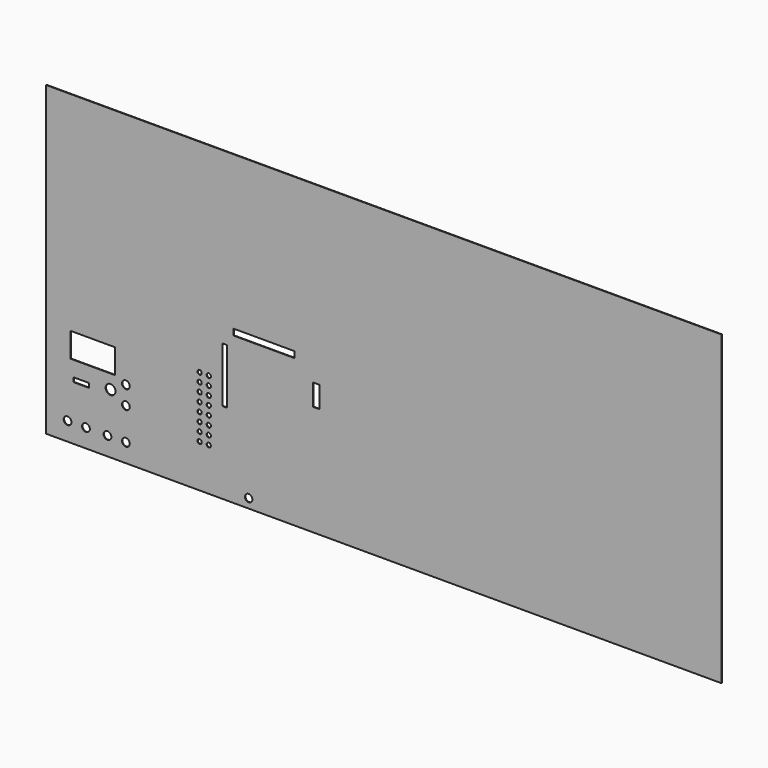
from build123d import *

# Parameters (mm, degrees)
F0_W     = 1100
F0_H     = 500
F0_R     = 6.3
F0_W_2   = 25
F0_H_2   = 7
F0_R_2   = 8
F0_R_3   = 3.5
F0_W_3   = 72
F0_H_3   = 40
F1_DEPTH = 0.45
F2_R     = 6
F2_W     = 10
F2_H     = 35
F2_W_2   = 100
F2_H_2   = 10
F2_W_3   = 8
F2_H_3   = 90
F3_DEPTH = 12.5


with BuildPart() as f1:
    # F0 (on Front) → F1 (new body, symmetric)
    with BuildSketch(Plane.XZ):
        Rectangle(F0_W, F0_H)
        with Locations((-515, -220)):
            Circle(F0_R, mode=Mode.SUBTRACT)
        with Locations((-485, -220)):
            Circle(F0_R, mode=Mode.SUBTRACT)
        with Locations((-450, -220)):
            Circle(F0_R, mode=Mode.SUBTRACT)
        with Locations((-420, -220)):
            Circle(F0_R, mode=Mode.SUBTRACT)
        with Locations((-492.5, -158)):
            Rectangle(F0_W_2, F0_H_2, mode=Mode.SUBTRACT)
        with Locations((-420, -167.5)):
            Circle(F0_R, mode=Mode.SUBTRACT)
        with Locations((-445, -152.5)):
            Circle(F0_R_2, mode=Mode.SUBTRACT)
        with Locations((-420, -137.5)):
            Circle(F0_R, mode=Mode.SUBTRACT)
        with Locations((-300, -180)):
            Circle(F0_R_3, mode=Mode.SUBTRACT)
        with Locations((-285, -180)):
            Circle(F0_R_3, mode=Mode.SUBTRACT)
        with Locations((-300, -165.8)):
            Circle(F0_R_3, mode=Mode.SUBTRACT)
        with Locations((-285, -165.8)):
            Circle(F0_R_3, mode=Mode.SUBTRACT)
        with Locations((-300, -151.6)):
            Circle(F0_R_3, mode=Mode.SUBTRACT)
        with Locations((-285, -151.6)):
            Circle(F0_R_3, mode=Mode.SUBTRACT)
        with Locations((-300, -137.4)):
            Circle(F0_R_3, mode=Mode.SUBTRACT)
        with Locations((-285, -137.4)):
            Circle(F0_R_3, mode=Mode.SUBTRACT)
        with Locations((-474, -109.5)):
            Rectangle(F0_W_3, F0_H_3, mode=Mode.SUBTRACT)
        with Locations((-300, -123.2)):
            Circle(F0_R_3, mode=Mode.SUBTRACT)
        with Locations((-285, -123.2)):
            Circle(F0_R_3, mode=Mode.SUBTRACT)
        with Locations((-300, -109)):
            Circle(F0_R_3, mode=Mode.SUBTRACT)
        with Locations((-285, -109)):
            Circle(F0_R_3, mode=Mode.SUBTRACT)
        with Locations((-300, -94.8)):
            Circle(F0_R_3, mode=Mode.SUBTRACT)
        with Locations((-285, -94.8)):
            Circle(F0_R_3, mode=Mode.SUBTRACT)
        with Locations((-300, -80.6)):
            Circle(F0_R_3, mode=Mode.SUBTRACT)
        with Locations((-285, -80.6)):
            Circle(F0_R_3, mode=Mode.SUBTRACT)
    extrude(amount=F1_DEPTH, both=True)

    # F2 (on face) → F3 (cut, symmetric)
    with BuildSketch(Plane.XZ.offset(0.45)):
        with Locations((-220, -235)):
            Circle(F2_R)
        with Locations((-110, -52.5)):
            Rectangle(F2_W, F2_H)
        with Locations((-195, -5)):
            Rectangle(F2_W_2, F2_H_2)
        with Locations((-259, -72)):
            Rectangle(F2_W_3, F2_H_3)
    extrude(amount=F3_DEPTH, both=True, mode=Mode.SUBTRACT)


solid = f1.part
